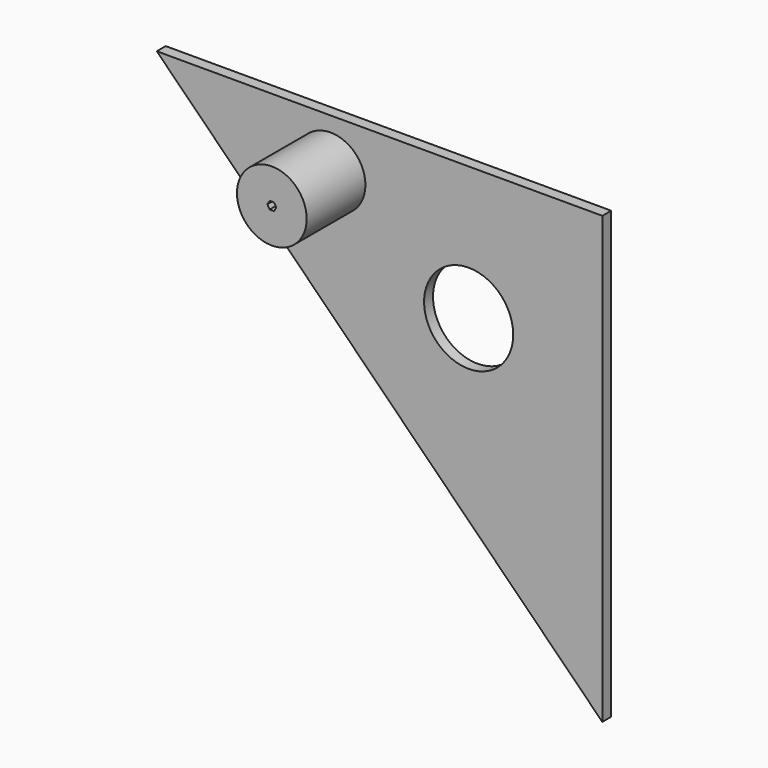
from build123d import *

# Parameters (mm, degrees)
F1_DEPTH = 25
F2_R     = 100
F3_DEPTH = 25.001
F4_R     = 78.250027
F5_DEPTH = 164.82871
F7_DEPTH = 189.82971


with BuildPart() as f1:
    # F0 (on Front) → F1 (new body)
    with BuildSketch(Plane.XZ):
        Polygon((-8614.96765, 1097.854802), (-9614.96765, 1097.854802), (-8614.96765, 97.854802), align=None)
    extrude(amount=F1_DEPTH)

    # F2 (on face) → F3 (cut, through all)
    with BuildSketch(Plane.XZ.offset(25)):
        with Locations((-8914.96765, 797.854802)):
            Circle(F2_R)
    extrude(amount=-F3_DEPTH, mode=Mode.SUBTRACT)

    # F4 (on face) → F5 (join)
    with BuildSketch(Plane.XZ.offset(25)):
        with Locations((-9224.896431, 985.964417)):
            Circle(F4_R)
    extrude(amount=F5_DEPTH)

    # F6 (on face) → F7 (cut, through all)
    with BuildSketch(Plane.XZ.offset(189.82871)):
        Polygon((-9229.896431, 977.304163), (-9219.896431, 977.304163), (-9214.896431, 985.964417), (-9219.896431, 994.624671), (-9229.896431, 994.624671), (-9234.896431, 985.964417), align=None)
    extrude(amount=-F7_DEPTH, mode=Mode.SUBTRACT)


solid = f1.part
